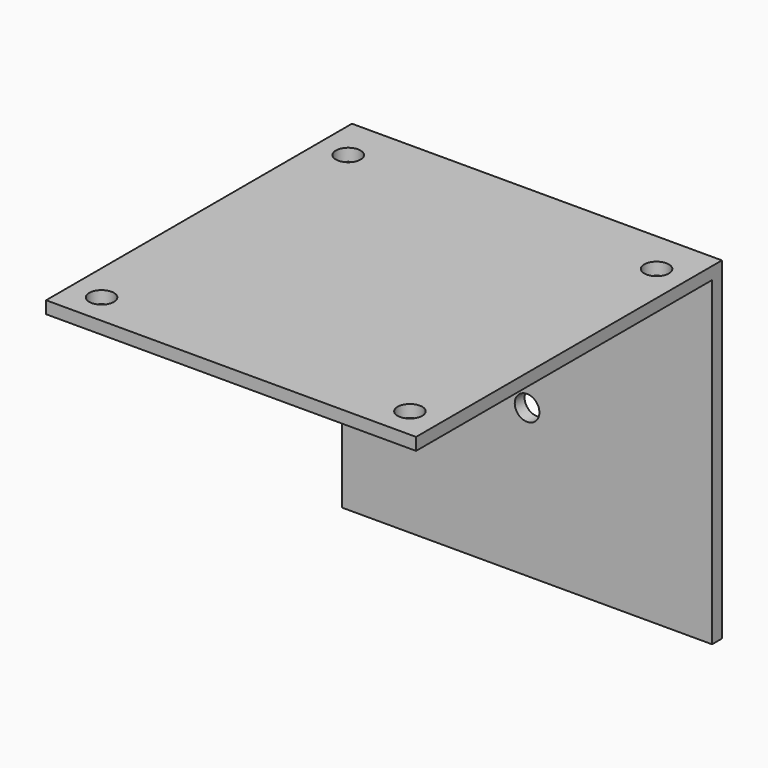
from build123d import *

# Parameters (mm, degrees)
F0_W     = 30
F0_H     = 30
F0_R     = 1
F1_DEPTH = 1
F2_W     = 30
F2_H     = 27
F2_R     = 1
F3_DEPTH = 1


with BuildPart() as f1:
    # F0 (on Top) → F1 (new body)
    with BuildSketch(Plane.XY):
        Rectangle(F0_W, F0_H)
        with Locations((-12.5, -12.5)):
            Circle(F0_R, mode=Mode.SUBTRACT)
        with Locations((12.5, -12.5)):
            Circle(F0_R, mode=Mode.SUBTRACT)
        with Locations((-12.5, 12.5)):
            Circle(F0_R, mode=Mode.SUBTRACT)
        with Locations((12.5, 12.5)):
            Circle(F0_R, mode=Mode.SUBTRACT)
    extrude(amount=F1_DEPTH)

    # F2 (on face) → F3 (join)
    with BuildSketch(Plane(origin=(0, 15, 0), x_dir=(-1, 0, 0), z_dir=(0, 1, 0))):
        with Locations((0, -12.5)):
            Rectangle(F2_W, F2_H)
        with Locations((0, -14)):
            Circle(F2_R, mode=Mode.SUBTRACT)
    extrude(amount=F3_DEPTH)


solid = f1.part
